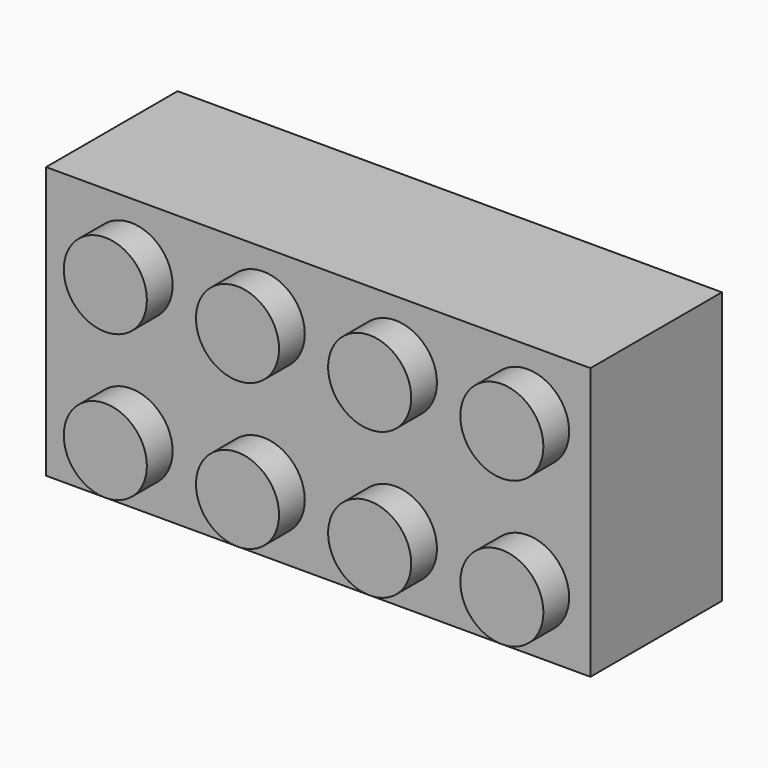
from build123d import *

# Parameters (mm, degrees)
F0_W     = 31.8008
F0_H     = 15.875
F1_DEPTH = 9.6012
F2_R     = 2.4267031392
F3_DEPTH = 1.8796
F4_T     = -1.27
F5_R     = 2.4257
F6_DEPTH = 8.3312
F7_R     = 2.1361983008
F8_DEPTH = 8.3312


with BuildPart() as f1:
    # F0 (on Front) → F1 (new body)
    with BuildSketch(Plane.XZ):
        with Locations((-1.5301071107, -3.5654834016)):
            Rectangle(F0_W, F0_H)
    extrude(amount=F1_DEPTH)

    # F2 (on face) → F3 (join)
    with BuildSketch(Plane.XZ.offset(9.6012)):
        with Locations((10.6989897501, -7.8316802624)):
            Circle(F2_R)
        with Locations((2.9773897501, -7.8316802624)):
            Circle(F2_R)
        with Locations((-4.7442102499, -7.8316802624)):
            Circle(F2_R)
        with Locations((-12.4658102499, -7.8316802624)):
            Circle(F2_R)
        with Locations((2.9773897501, 0.7007134592)):
            Circle(F2_R)
        with Locations((-4.7442102499, 0.7007134592)):
            Circle(F2_R)
        with Locations((-12.4658102499, 0.7007134592)):
            Circle(F2_R)
        with Locations((10.6989897501, 0.7007134592)):
            Circle(F2_R)
    extrude(amount=F3_DEPTH)

    # F4
    f4_openings = [f1.faces().sort_by_distance(p)[0] for p in [
        (-1.530107, 0, -3.565483),
    ]]
    offset(amount=F4_T, openings=f4_openings, kind=Kind.INTERSECTION)

    # F5 (on face) → F6 (join, through all)
    with BuildSketch(Plane(origin=(0, -8.3312, 0), x_dir=(-1, 0, 0), z_dir=(0, 1, 0))):
        with Locations((1.5301071107, -3.5654834016)):
            Circle(F5_R)
        with Locations((8.8453071107, -3.5654834016)):
            Circle(F5_R)
        with Locations((-5.7850928893, -3.5654834016)):
            Circle(F5_R)
    extrude(amount=F6_DEPTH)

    # F7 (on face) → F8 (cut, through all)
    with BuildSketch(Plane(origin=(0, 0, 0), x_dir=(-1, 0, 0), z_dir=(0, 1, 0))):
        with Locations((-5.7850928893, -3.5654834016)):
            Circle(F7_R)
        with Locations((1.5387871107, -3.5654834016)):
            Circle(F7_R)
        with Locations((8.8626671107, -3.5654834016)):
            Circle(F7_R)
    extrude(amount=-F8_DEPTH, mode=Mode.SUBTRACT)


solid = f1.part
